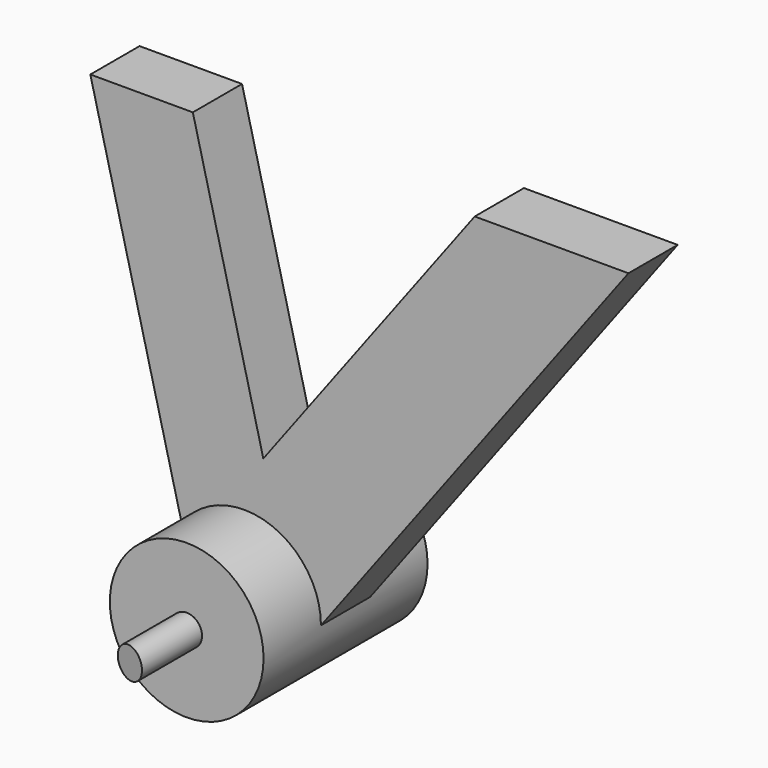
from build123d import *

# Parameters (mm, degrees)
F1_DEPTH = 15
F2_R     = 37.5
F3_DEPTH = 50
F4_R     = 7.5
F5_DEPTH = 40
F7_DEPTH = 50


with BuildPart() as f1:
    # F0 (on Front) → F1 (new body, symmetric)
    with BuildSketch(Plane.XZ):
        Polygon((-25, 200), (-75, 200), (-17.5, -30), (15, -30), (187.5, 200), (112.5, 200), (9.375, 62.5), align=None)
    extrude(amount=F1_DEPTH, both=True)

    # F2 (on Front) → F3 (join, symmetric)
    with BuildSketch(Plane.XZ):
        Circle(F2_R)
    extrude(amount=F3_DEPTH, both=True)

    # F4 (on face) → F5 (join)
    with BuildSketch(Plane.XZ.offset(50)):
        Circle(F4_R)
    extrude(amount=F5_DEPTH)

    # F6 (on Top) → F7 (cut, symmetric)
    with BuildSketch(Plane.XY):
        Polygon((-20, -79.282032), (-20, -90), (20, -90), align=None)
    extrude(amount=F7_DEPTH, both=True, mode=Mode.SUBTRACT)


solid = f1.part
